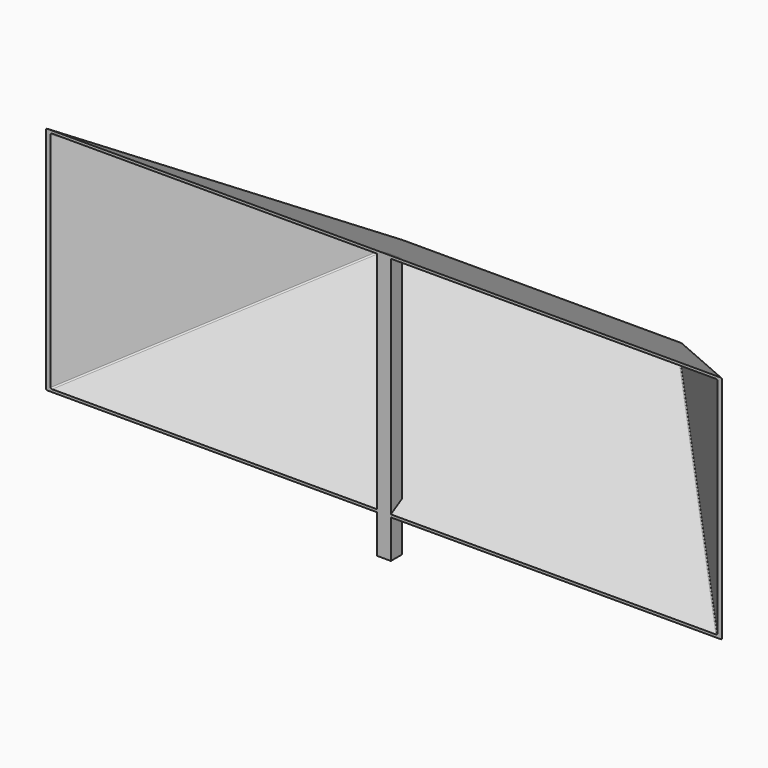
from build123d import *

# Parameters (mm, degrees)
EXTRUDE001_DEPTH       = 9
BOX001_W               = 200
BOX001_H               = 200
BOX001_DEPTH           = 200
BOX001_PLACEMENT_ANGLE = 45
BOX_W                  = 200
BOX_H                  = 200
BOX_DEPTH              = 200
BOX_PLACEMENT_ANGLE    = 45
EXTRUDE_DEPTH          = 440
FILLET001_R            = 1
FILLET_R               = 1
FUSION_PLACEMENT_ANGLE = 90


with BuildPart() as extrude001:
    # Sketch001 → Extrude001 (new body)
    with BuildSketch(Plane.XY):
        Polygon((-75, 0), (-69.803848, 9), (100, 9), (100, 0), align=None)
    extrude(amount=EXTRUDE001_DEPTH)


with BuildPart() as extrude001_1:
    # Extrude001 placement: moved
    add(extrude001.part.moved(Location((0, 0, 215.5))))


with BuildPart() as cube001:
    # Box001 → Box001 (new body)
    with BuildSketch(Plane.XY):
        with Locations((100, 100)):
            Rectangle(BOX001_W, BOX001_H)
    extrude(amount=BOX001_DEPTH)


with BuildPart() as cube001_1:
    # Box001 placement: moved
    add(cube001.part.moved(Location((-96, 139.726, 300.357))).rotate(Axis((-96, 139.726, 300.357), (1, 0, 0)), BOX001_PLACEMENT_ANGLE))


with BuildPart() as cube:
    # Box → Box (new body)
    with BuildSketch(Plane.XY):
        with Locations((100, 100)):
            Rectangle(BOX_W, BOX_H)
    extrude(amount=BOX_DEPTH)


with BuildPart() as cube_1:
    # Box placement: moved
    add(cube.part.moved(Location((-96, 141.421356, -141.421356))).rotate(Axis((-96, 141.421356, -141.421356), (1, 0, 0)), BOX_PLACEMENT_ANGLE))


with BuildPart() as cut001:
    # Sketch → Extrude (new body)
    with BuildSketch(Plane.XY):
        Polygon((-75, 0), (0, 129.903811), (75, 0), align=None)
    extrude(amount=EXTRUDE_DEPTH)

    # Cut: cut Cube
    add(cube_1.part, mode=Mode.SUBTRACT)

    # Cut001: cut Cube001
    add(cube001_1.part, mode=Mode.SUBTRACT)


with BuildPart() as fillet001:
    # Fillet001 base: copy of Cut001
    add(cut001.part)

    # Fillet001
    fillet001_edges = [fillet001.edges().sort_by_distance(p)[0] for p in [
        (-37.5, 64.951905, 64.951905),
        (0, 129.903811, 220.0415),
        (-37.47604, 64.993405, 375.089595),
        (37.5, 64.951905, 64.951905),
        (37.47604, 64.993405, 375.089595),
    ]]
    fillet(fillet001_edges, radius=FILLET001_R)


with BuildPart() as fillet001_1:
    # Fillet001 placement: moved
    add(fillet001.part.moved(Location((0, -3, 0))))


with BuildPart() as fusion:
    # Fillet base: copy of Cut001
    add(cut001.part)

    # Fillet
    fillet_edges = [fusion.edges().sort_by_distance(p)[0] for p in [
        (-37.5, 64.951905, 64.951905),
        (0, 129.903811, 220.0415),
        (-37.47604, 64.993405, 375.089595),
        (37.5, 64.951905, 64.951905),
        (37.47604, 64.993405, 375.089595),
    ]]
    fillet(fillet_edges, radius=FILLET_R)

    # Cut002: cut Fillet001
    add(fillet001_1.part, mode=Mode.SUBTRACT)

    # Fusion: union Extrude001
    add(extrude001_1.part)


with BuildPart() as fusion_1:
    # Fusion placement: moved
    add(fusion.part.moved(Location((-105.5, -15.92, 333))).rotate(Axis((-105.5, -15.92, 333), (0, 1, 0)), FUSION_PLACEMENT_ANGLE))


solid = fusion_1.part
